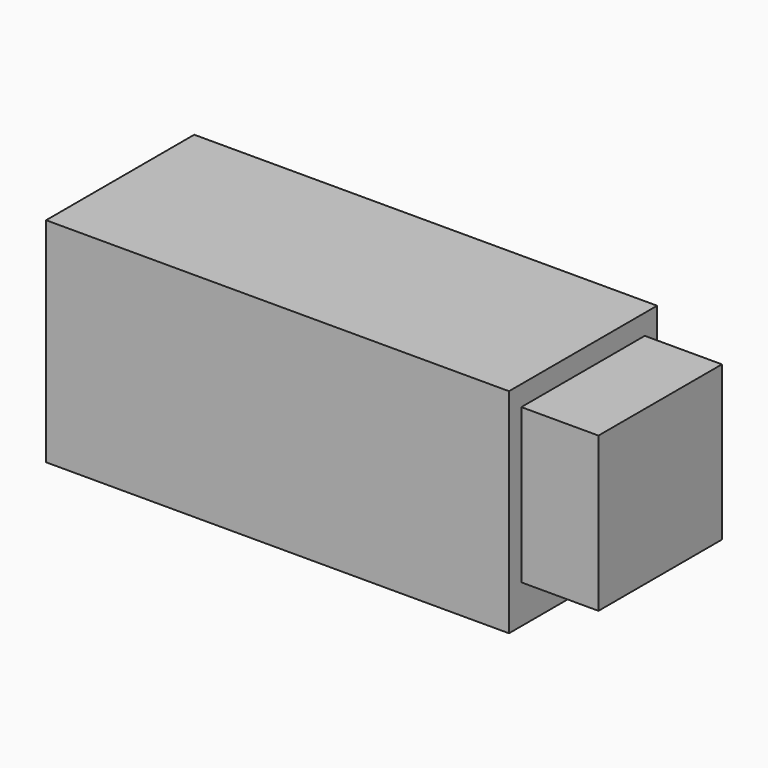
from build123d import *

# Parameters (mm, degrees)
F0_W     = 6096
F0_H     = 2438.4
F1_DEPTH = 2806.7
F3_W     = 2267.961026
F3_H     = 2655.269852
F4_DEPTH = 6045.2
F5_W     = 622.3
F5_H     = 2159
F6_DEPTH = 254
F2_W     = 2032
F2_H     = 2032
F7_DEPTH = 1016


with BuildPart() as f1:
    # F0 (on Top) → F1 (new body)
    with BuildSketch(Plane.XY):
        Rectangle(F0_W, F0_H)
    extrude(amount=F1_DEPTH)

    # F3 (on face) → F4 (cut)
    with BuildSketch(Plane(origin=(-3048, 0, 0), x_dir=(0, -1, 0), z_dir=(-1, 0, 0))):
        with Locations((0, 1403.35)):
            Rectangle(F3_W, F3_H)
    extrude(amount=-F4_DEPTH, mode=Mode.SUBTRACT)

    # F5 (on face) → F6 (cut)
    with BuildSketch(Plane(origin=(0, 1219.2, 0), x_dir=(-1, 0, 0), z_dir=(0, 1, 0))):
        with Locations((1835.15, 1384.3)):
            Rectangle(F5_W, F5_H)
        with Locations((501.65, 1384.3)):
            Rectangle(F5_W, F5_H)
    extrude(amount=-F6_DEPTH, mode=Mode.SUBTRACT)

    # F2 (on face) → F7 (join)
    with BuildSketch(Plane.YZ.offset(3048)):
        with Locations((0, 1524)):
            Rectangle(F2_W, F2_H)
    extrude(amount=F7_DEPTH)


solid = f1.part
